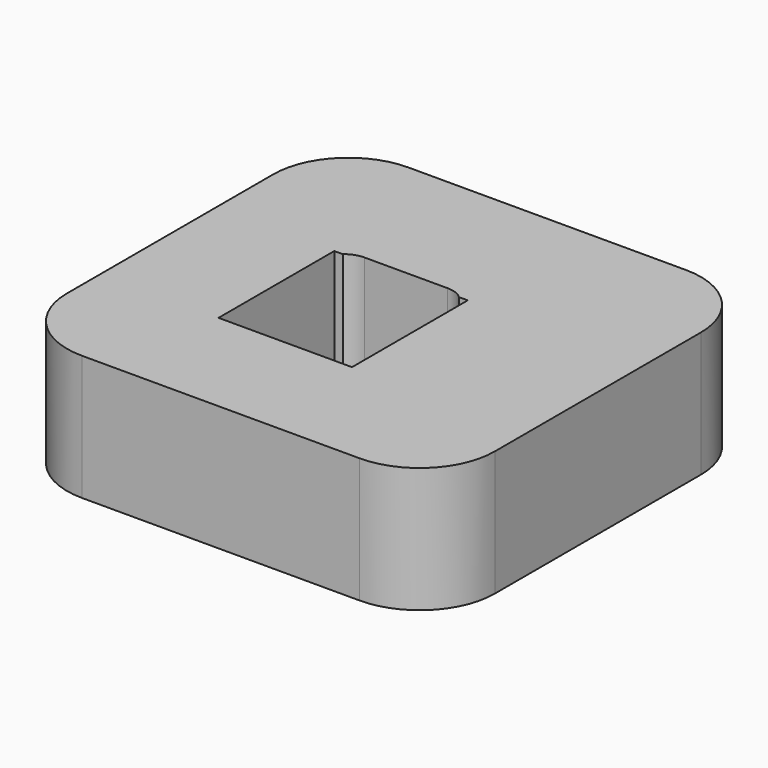
from build123d import *

# Parameters (mm, degrees)
F1_DEPTH = 25


with BuildPart() as f1:
    # F0 (on Top) → F1 (new body)
    with BuildSketch(Plane.XY):
        with BuildLine():
            Line((-14.105032, 19.571008), (-27.714499, 47.588757))
            ThreePointArc((-27.714499, 47.588757), (-36.374753, 44.836205), (-41.856635, 37.588757))
            ThreePointArc((-41.856635, 37.588757), (-42.498477, 35.125286), (-42.714499, 32.588757))
            Line((-42.714499, 32.588757), (-19.105032, 14.571008))
            Line((-19.105032, 14.571008), (-19.105032, 18.328404))
            Line((-19.105032, 18.328404), (-17.403816, 18.328404))
            ThreePointArc((-17.403816, 18.328404), (-15.867562, 19.250056), (-14.105032, 19.571008))
        make_face()
        Polygon((27.714499, 47.588757), (-27.714499, 47.588757), (-14.105032, 19.571008), (2.551774, 19.571008), align=None)
        with BuildLine():
            ThreePointArc((42.714499, 32.588757), (38.321101, 43.195358), (27.714499, 47.588757))
            Line((27.714499, 47.588757), (2.551774, 19.571008))
            ThreePointArc((2.551774, 19.571008), (4.314304, 19.250056), (5.850558, 18.328404))
            Line((5.850558, 18.328404), (7.551774, 18.328404))
            Line((7.551774, 18.328404), (7.551774, 14.571008))
            Line((7.551774, 14.571008), (42.714499, 32.588757))
        make_face()
        Polygon((42.714499, -18.860948), (42.714499, 32.588757), (7.551774, 14.571008), (7.551774, -5.56213), align=None)
        Polygon((-19.105032, 14.571008), (-42.714499, 32.588757), (-42.714499, -18.860948), (-19.105032, -5.56213), align=None)
        with BuildLine():
            ThreePointArc((27.714499, -33.860948), (38.321101, -29.46755), (42.714499, -18.860948))
            Line((42.714499, -18.860948), (7.551774, -5.56213))
            Line((7.551774, -5.56213), (7.551774, -10.56213))
            Line((7.551774, -10.56213), (2.551774, -10.56213))
            Line((2.551774, -10.56213), (27.714499, -33.860948))
        make_face()
        with BuildLine():
            Line((-19.105032, -5.56213), (-42.714499, -18.860948))
            ThreePointArc((-42.714499, -18.860948), (-38.321101, -29.46755), (-27.714499, -33.860948))
            Line((-27.714499, -33.860948), (-14.105032, -10.56213))
            Line((-14.105032, -10.56213), (-19.105032, -10.56213))
            Line((-19.105032, -10.56213), (-19.105032, -5.56213))
        make_face()
        Polygon((-27.714499, -33.860948), (27.714499, -33.860948), (2.551774, -10.56213), (-14.105032, -10.56213), align=None)
    extrude(amount=F1_DEPTH)


solid = f1.part
